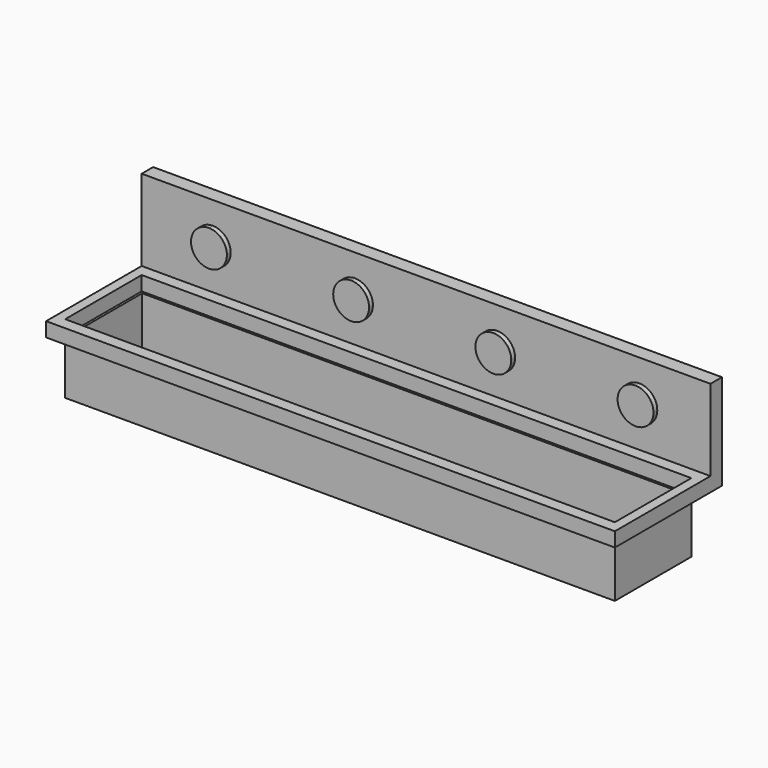
from build123d import *

# Parameters (mm, degrees)
F0_W     = 115
F0_H     = 20
F1_DEPTH = 11.5
F2_W     = 119
F2_H     = 25
F2_W_2   = 115
F2_H_2   = 20
F3_DEPTH = 3
F4_W     = 114
F4_H     = 19
F5_DEPTH = 11
F6_W     = 119
F6_H     = 17
F6_H_2   = 3
F7_DEPTH = 3
F9_DEPTH = 1


with BuildPart() as f1:
    # F0 (on Top) → F1 (new body)
    with BuildSketch(Plane.XY):
        Rectangle(F0_W, F0_H)
    extrude(amount=F1_DEPTH)

    # F4 (on face) → F5 (cut)
    with BuildSketch(Plane.XY.offset(11.5)):
        Rectangle(F4_W, F4_H)
    extrude(amount=-F5_DEPTH, mode=Mode.SUBTRACT)


with BuildPart() as f3:
    # F2 (on face) → F3 (new body)
    with BuildSketch(Plane.XY.offset(11.5)):
        Rectangle(F2_W, F2_H)
        Rectangle(F2_W_2, F2_H_2, mode=Mode.SUBTRACT)
    extrude(amount=F3_DEPTH)

    # F6 (on face) → F7 (join)
    with BuildSketch(Plane(origin=(0, 12.5, 0), x_dir=(-1, 0, 0), z_dir=(0, 1, 0))):
        with Locations((0, 23)):
            Rectangle(F6_W, F6_H)
        with Locations((0, 13)):
            Rectangle(F6_W, F6_H_2)
    extrude(amount=F7_DEPTH)

    # F8 (on face) → F9 (join)
    with BuildSketch(Plane.XZ.offset(-12.5)):
        with BuildLine():
            ThreePointArc((-48.375, 23), (-47.2766504294, 20.3483495706), (-44.625, 19.25))
            Line((-44.625, 19.25), (-44.625, 23))
            Line((-44.625, 23), (-48.375, 23))
        make_face()
        with BuildLine():
            Line((-44.625, 23), (-44.625, 19.25))
            ThreePointArc((-44.625, 19.25), (-41.9733495706, 20.3483495706), (-40.875, 23))
            Line((-40.875, 23), (-44.625, 23))
        make_face()
        with BuildLine():
            ThreePointArc((-40.875, 23), (-41.9733495706, 25.6516504294), (-44.625, 26.75))
            Line((-44.625, 26.75), (-44.625, 23))
            Line((-44.625, 23), (-40.875, 23))
        make_face()
        with BuildLine():
            Line((-44.625, 23), (-44.625, 26.75))
            ThreePointArc((-44.625, 26.75), (-47.2766504294, 25.6516504294), (-48.375, 23))
            Line((-48.375, 23), (-44.625, 23))
        make_face()
        with BuildLine():
            Line((-14.875, 23), (-14.875, 26.75))
            ThreePointArc((-14.875, 26.75), (-17.5266504294, 25.6516504294), (-18.625, 23))
            Line((-18.625, 23), (-14.875, 23))
        make_face()
        with BuildLine():
            ThreePointArc((-11.125, 23), (-12.2233495706, 25.6516504294), (-14.875, 26.75))
            Line((-14.875, 26.75), (-14.875, 23))
            Line((-14.875, 23), (-11.125, 23))
        make_face()
        with BuildLine():
            ThreePointArc((-18.625, 23), (-17.5266504294, 20.3483495706), (-14.875, 19.25))
            Line((-14.875, 19.25), (-14.875, 23))
            Line((-14.875, 23), (-18.625, 23))
        make_face()
        with BuildLine():
            Line((-14.875, 23), (-14.875, 19.25))
            ThreePointArc((-14.875, 19.25), (-12.2233495706, 20.3483495706), (-11.125, 23))
            Line((-11.125, 23), (-14.875, 23))
        make_face()
        with BuildLine():
            Line((14.875, 23), (18.625, 23))
            ThreePointArc((18.625, 23), (17.5266504294, 25.6516504294), (14.875, 26.75))
            Line((14.875, 26.75), (14.875, 23))
        make_face()
        with BuildLine():
            Line((11.125, 23), (14.875, 23))
            Line((14.875, 23), (14.875, 26.75))
            ThreePointArc((14.875, 26.75), (12.2233495706, 25.6516504294), (11.125, 23))
        make_face()
        with BuildLine():
            Line((14.875, 19.25), (14.875, 23))
            Line((14.875, 23), (11.125, 23))
            ThreePointArc((11.125, 23), (12.2233495706, 20.3483495706), (14.875, 19.25))
        make_face()
        with BuildLine():
            ThreePointArc((14.875, 19.25), (17.5266504294, 20.3483495706), (18.625, 23))
            Line((18.625, 23), (14.875, 23))
            Line((14.875, 23), (14.875, 19.25))
        make_face()
        with BuildLine():
            Line((44.625, 23), (48.375, 23))
            ThreePointArc((48.375, 23), (47.2766504294, 25.6516504294), (44.625, 26.75))
            Line((44.625, 26.75), (44.625, 23))
        make_face()
        with BuildLine():
            Line((40.875, 23), (44.625, 23))
            Line((44.625, 23), (44.625, 26.75))
            ThreePointArc((44.625, 26.75), (41.9733495706, 25.6516504294), (40.875, 23))
        make_face()
        with BuildLine():
            Line((44.625, 19.25), (44.625, 23))
            Line((44.625, 23), (40.875, 23))
            ThreePointArc((40.875, 23), (41.9733495706, 20.3483495706), (44.625, 19.25))
        make_face()
        with BuildLine():
            ThreePointArc((44.625, 19.25), (47.2766504294, 20.3483495706), (48.375, 23))
            Line((48.375, 23), (44.625, 23))
            Line((44.625, 23), (44.625, 19.25))
        make_face()
    extrude(amount=F9_DEPTH)


solid = Compound([f1.part, f3.part])
